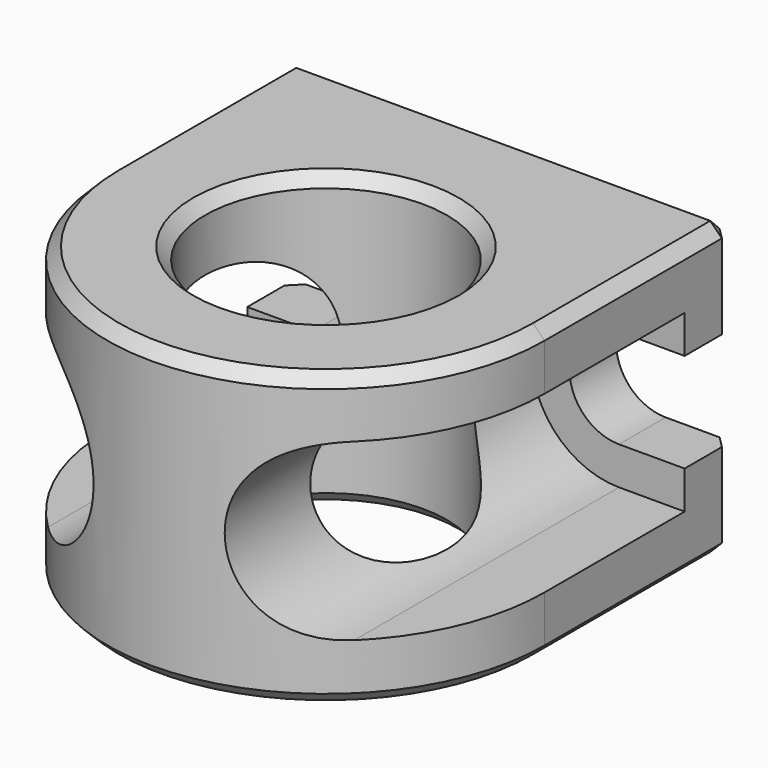
from build123d import *

# Parameters (mm, degrees)
CYLINDER006_R      = 4.15
CYLINDER006_DEPTH  = 13
CYLINDER008_R      = 2
CYLINDER008_DEPTH  = 15
CYLINDER009_R      = 2
CYLINDER009_DEPTH  = 15
CYLINDER010_R      = 1.7
CYLINDER010_DEPTH  = 7
CYLINDER011_R      = 1.7
CYLINDER011_DEPTH  = 7
BOX007_W           = 3
BOX007_H           = 3
BOX007_DEPTH       = 3.4
BOX008_W           = 3
BOX008_H           = 3
BOX008_DEPTH       = 3.4
CYLINDER013_R      = 3
CYLINDER013_DEPTH  = 21
CYLINDER012_R      = 3
CYLINDER012_DEPTH  = 21
BOX005_W           = 3
BOX005_H           = 28
BOX005_DEPTH       = 6
BOX006_W           = 3
BOX006_H           = 28
BOX006_DEPTH       = 6
BOX004_W           = 15
BOX004_H           = 8
BOX004_DEPTH       = 10
CYLINDER007_R      = 7.5
CYLINDER007_DEPTH  = 10
CHAMFER_SIZE       = 0.4
CHAMFER008016_SIZE = 0.4


with BuildPart() as cylinder006:
    # Cylinder006 → Cylinder006 (new body)
    with BuildSketch(Plane.XY.offset(-1)):
        Circle(CYLINDER006_R)
    extrude(amount=CYLINDER006_DEPTH)


with BuildPart() as cylinder008:
    # Cylinder008 → Cylinder008 (new body)
    with BuildSketch(Plane(origin=(-5.25, -10, 5), x_dir=(1, 0, 0), z_dir=(0, 1, 0))):
        Circle(CYLINDER008_R)
    extrude(amount=CYLINDER008_DEPTH)


with BuildPart() as cylinder009:
    # Cylinder009 → Cylinder009 (new body)
    with BuildSketch(Plane(origin=(5.25, -10, 5), x_dir=(1, 0, 0), z_dir=(0, 1, 0))):
        Circle(CYLINDER009_R)
    extrude(amount=CYLINDER009_DEPTH)


with BuildPart() as cylinder010:
    # Cylinder010 → Cylinder010 (new body)
    with BuildSketch(Plane(origin=(5.25, 4, 5), x_dir=(1, 0, 0), z_dir=(0, 1, 0))):
        Circle(CYLINDER010_R)
    extrude(amount=CYLINDER010_DEPTH)


with BuildPart() as cylinder011:
    # Cylinder011 → Cylinder011 (new body)
    with BuildSketch(Plane(origin=(-5.25, 4, 5), x_dir=(1, 0, 0), z_dir=(0, 1, 0))):
        Circle(CYLINDER011_R)
    extrude(amount=CYLINDER011_DEPTH)


with BuildPart() as cube007:
    # Box007 → Box007 (new body)
    with BuildSketch(Plane(origin=(-8.25, 7, 3.3), x_dir=(1, 0, 0), z_dir=(0, 0, 1))):
        with Locations((1.5, 1.5)):
            Rectangle(BOX007_W, BOX007_H)
    extrude(amount=BOX007_DEPTH)


with BuildPart() as fusion036012039011002025018010_body:
    # Box008 → Box008 (new body)
    with BuildSketch(Plane(origin=(5.25, 7, 3.3), x_dir=(1, 0, 0), z_dir=(0, 0, 1))):
        with Locations((1.5, 1.5)):
            Rectangle(BOX008_W, BOX008_H)
    extrude(amount=BOX008_DEPTH)

    # Fusion036012039011002025018010003004005022009: union Cylinder008, Cylinder009, Cylinder010, Cylinder011, Cube007
    add(cylinder008.part)
    add(cylinder009.part)
    add(cylinder010.part)
    add(cylinder011.part)
    add(cube007.part)


with BuildPart() as fusion036012039011002025018010_body_1:
    # Fusion036012039011002025018010003004005022009 placement: moved
    add(fusion036012039011002025018010_body.part.moved(Location((0, -1, 0))))


with BuildPart() as cylinder013:
    # Cylinder013 → Cylinder013 (new body)
    with BuildSketch(Plane(origin=(5.25, 4, 5), x_dir=(1, 0, 0), z_dir=(0, 1, 0))):
        Circle(CYLINDER013_R)
    extrude(amount=CYLINDER013_DEPTH)


with BuildPart() as fusion036012039011002025018010_body2:
    # Cylinder012 → Cylinder012 (new body)
    with BuildSketch(Plane(origin=(-5.25, 4, 5), x_dir=(1, 0, 0), z_dir=(0, 1, 0))):
        Circle(CYLINDER012_R)
    extrude(amount=CYLINDER012_DEPTH)

    # Fusion036012039011002025018010003004005022005: union Cylinder013
    add(cylinder013.part)


with BuildPart() as fusion036012039011002025018010_body2_1:
    # Fusion036012039011002025018010003004005022005 placement: moved
    add(fusion036012039011002025018010_body2.part.moved(Location((0, -18, 0))))


with BuildPart() as cube005:
    # Box005 → Box005 (new body)
    with BuildSketch(Plane(origin=(5.25, 4, 2), x_dir=(1, 0, 0), z_dir=(0, 0, 1))):
        with Locations((1.5, 14)):
            Rectangle(BOX005_W, BOX005_H)
    extrude(amount=BOX005_DEPTH)


with BuildPart() as fusion036012039011002025018010_body3:
    # Box006 → Box006 (new body)
    with BuildSketch(Plane(origin=(-8.25, 4, 2), x_dir=(1, 0, 0), z_dir=(0, 0, 1))):
        with Locations((1.5, 14)):
            Rectangle(BOX006_W, BOX006_H)
    extrude(amount=BOX006_DEPTH)

    # Fusion036012039011002025018010003004005022006: union Cube005
    add(cube005.part)


with BuildPart() as fusion036012039011002025018010_body3_1:
    # Fusion036012039011002025018010003004005022006 placement: moved
    add(fusion036012039011002025018010_body3.part.moved(Location((0, -25, 0))))

    # Fusion036012039011002025018010003004005022010: union Fusion036012039011002025018010 body2
    add(fusion036012039011002025018010_body2_1.part)


with BuildPart() as fusion036012039011002025018010_body3_2:
    # Fusion036012039011002025018010003004005022010 placement: moved
    add(fusion036012039011002025018010_body3_1.part.moved(Location((0, -1, 0))))


with BuildPart() as cube004:
    # Box004 → Box004 (new body)
    with BuildSketch(Plane(origin=(-7.5, 0, 0), x_dir=(1, 0, 0), z_dir=(0, 0, 1))):
        with Locations((7.5, 4)):
            Rectangle(BOX004_W, BOX004_H)
    extrude(amount=BOX004_DEPTH)


with BuildPart() as m8_probe_mount:
    # Cylinder007 → Cylinder007 (new body)
    with BuildSketch(Plane.XY):
        Circle(CYLINDER007_R)
    extrude(amount=CYLINDER007_DEPTH)

    # Fusion036012039011002025018010003004005022011: union Cube004
    add(cube004.part)

    # Chamfer
    chamfer_edges = [m8_probe_mount.edges().sort_by_distance(p)[0] for p in [
        (0, -7.5, 0),
        (0, -7.5, 10),
        (7.5, 4, 10),
        (7.5, 8, 5),
        (7.5, 4, 0),
        (-7.5, 4, 10),
        (-7.5, 8, 5),
        (-7.5, 4, 0),
        (0, 8, 10),
        (0, 8, 0),
    ]]
    chamfer(chamfer_edges, length=CHAMFER_SIZE)

    # Cut001007049: cut Fusion036012039011002025018010 body3
    add(fusion036012039011002025018010_body3_2.part, mode=Mode.SUBTRACT)

    # Cut001007050: cut Fusion036012039011002025018010 body
    add(fusion036012039011002025018010_body_1.part, mode=Mode.SUBTRACT)

    # Cut001007051: cut Cylinder006
    add(cylinder006.part, mode=Mode.SUBTRACT)

    # Chamfer008016
    chamfer008016_edges = [m8_probe_mount.edges().sort_by_distance(p)[0] for p in [
        (0, -4.15, 0),
        (0, 4.15, 10),
        (0, -4.15, 10),
        (0, 4.15, 0),
    ]]
    chamfer(chamfer008016_edges, length=CHAMFER008016_SIZE)


with BuildPart() as m8_probe_mount_1:
    # Chamfer008016 placement: moved
    add(m8_probe_mount.part.moved(Location((0, 10, 3))))


solid = m8_probe_mount_1.part
